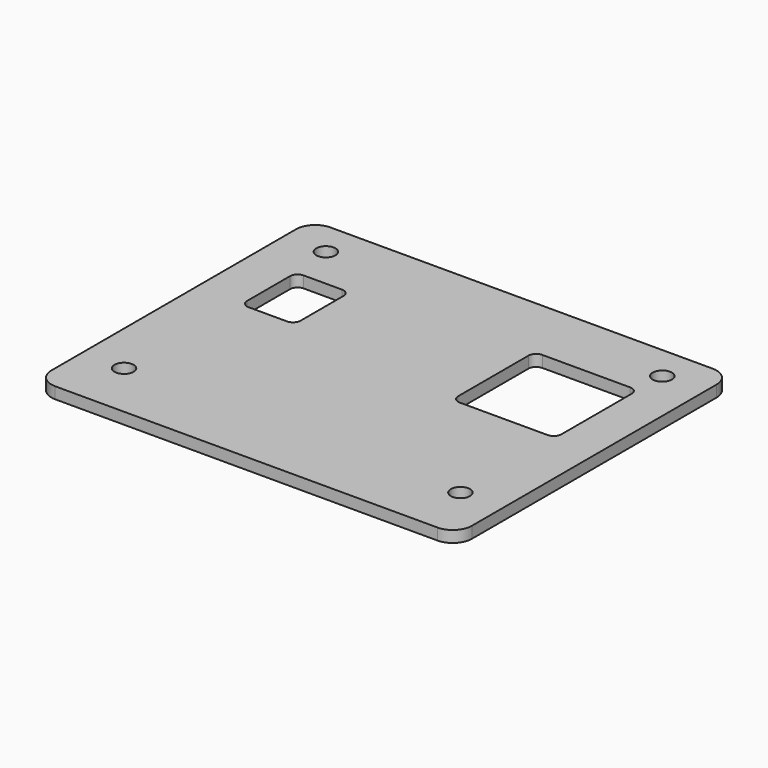
from build123d import *

# Parameters (mm, degrees)
F0_W     = 110
F0_H     = 90
F1_DEPTH = 3
F2_R     = 5
F4_D     = 5
F5_D     = 5
F6_W     = 14
F6_H     = 18
F6_W_2   = 27
F6_H_2   = 27
F7_DEPTH = 3.001
F8_R     = 2


with BuildPart() as f1:
    # F0 (on Top) → F1 (new body)
    with BuildSketch(Plane.XY):
        Rectangle(F0_W, F0_H)
    extrude(amount=F1_DEPTH)

    # F2
    f2_edges = [f1.edges().sort_by_distance(p)[0] for p in [
        (55, 45, 1.5),
        (55, -45, 1.5),
        (-55, 45, 1.5),
        (-55, -45, 1.5),
    ]]
    fillet(f2_edges, radius=F2_R)

    # F4 (through all)
    with Locations(Plane(origin=(0, 0, 0), x_dir=(1, 0, 0), z_dir=(0, 0, -1))):
        with Locations((-44, -36), (44, -36)):
            Hole(F4_D / 2)

    # F5 (through all)
    with Locations(Plane(origin=(0, 0, 0), x_dir=(1, 0, 0), z_dir=(0, 0, -1))):
        with Locations((-44, 30), (44, 30)):
            Hole(F5_D / 2)

    # F6 (on face) → F7 (cut, through all)
    with BuildSketch(Plane.XY.offset(3)):
        with Locations((-36, 16)):
            Rectangle(F6_W, F6_H)
        with Locations((30.5, 14.5)):
            Rectangle(F6_W_2, F6_H_2)
    extrude(amount=-F7_DEPTH, mode=Mode.SUBTRACT)

    # F8
    f8_edges = [f1.edges().sort_by_distance(p)[0] for p in [
        (-43, 7, 1.5),
        (17, 1, 1.5),
        (-29, 7, 1.5),
        (-43, 25, 1.5),
        (17, 28, 1.5),
        (44, 28, 1.5),
        (44, 1, 1.5),
        (-29, 25, 1.5),
    ]]
    fillet(f8_edges, radius=F8_R)


solid = f1.part
